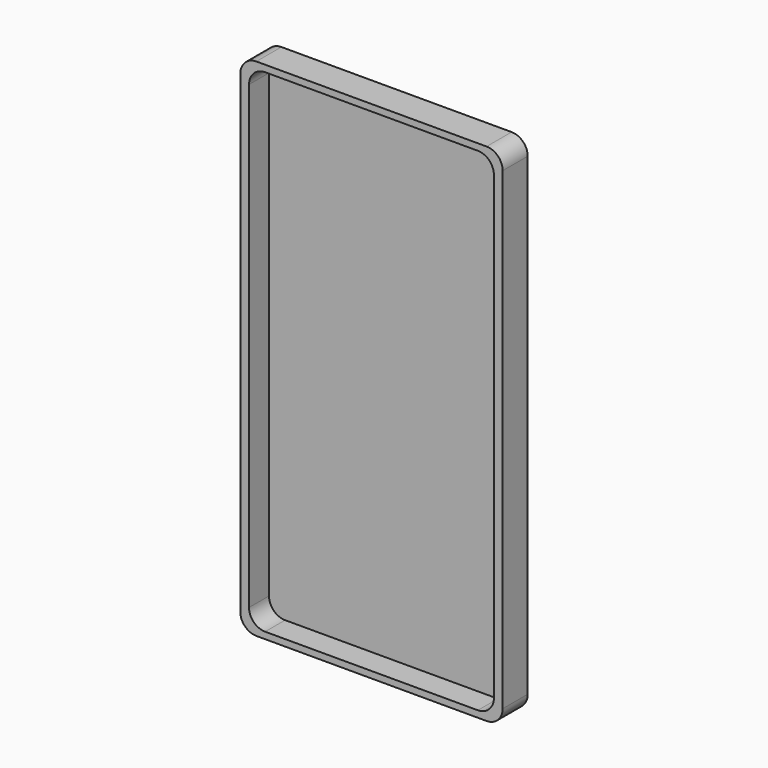
from build123d import *

# Parameters (mm, degrees)
F0_W     = 83
F0_H     = 160
F0_W_2   = 77.461682
F0_H_2   = 155.82101
F1_DEPTH = 9.906
F2_DEPTH = 2
F3_R     = 5.08


with BuildPart() as f1:
    # F0 (on Front) → F1 (new body)
    with BuildSketch(Plane.XZ):
        Rectangle(F0_W, F0_H)
        Rectangle(F0_W_2, F0_H_2, mode=Mode.SUBTRACT)
    extrude(amount=F1_DEPTH)

    # F0 (on Front) → F2 (join)
    with BuildSketch(Plane.XZ):
        Rectangle(F0_W_2, F0_H_2)
    extrude(amount=F2_DEPTH)

    # F3
    f3_edges = [f1.edges().sort_by_distance(p)[0] for p in [
        (-38.730841, -5.953, 77.910505),
        (38.730841, -5.953, 77.910505),
        (-38.730841, -5.953, -77.910505),
        (38.730841, -5.953, -77.910505),
        (41.5, -4.953, -80),
        (-41.5, -4.953, 80),
        (-41.5, -4.953, -80),
        (41.5, -4.953, 80),
    ]]
    fillet(f3_edges, radius=F3_R)


solid = f1.part
